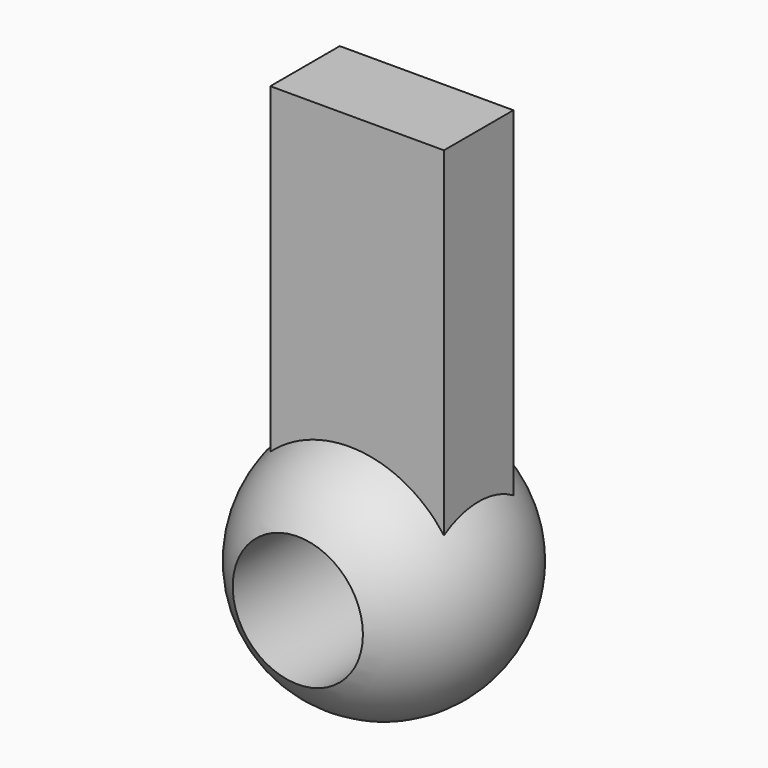
from build123d import *

# Parameters (mm, degrees)
F3_DEPTH = 59.944
F4_R     = 9.525
F5_DEPTH = 38.1


with BuildPart() as f1:
    # F0 (on Right) → F1 (revolve)
    with BuildSketch(Plane.YZ):
        with BuildLine():
            Line((0, 0), (0, -18.415))
            ThreePointArc((0, -18.415), (18.415, 0), (0, 18.415))
            Line((0, 18.415), (0, 0))
        make_face()
    revolve(axis=Axis((0, 0, -9.2075), (0, 0, -1)))

    # F2 (on Top) → F3 (join)
    with BuildSketch(Plane.XY):
        Polygon((13.84911329, 6.35), (-11.55088671, 6.35), (-11.55088671, -6.35), (0, -6.35), (13.84911329, -6.35), align=None)
    extrude(amount=F3_DEPTH)

    # F4 (on Front) → F5 (cut, symmetric)
    with BuildSketch(Plane.XZ):
        Circle(F4_R)
    extrude(amount=F5_DEPTH, both=True, mode=Mode.SUBTRACT)


solid = f1.part
